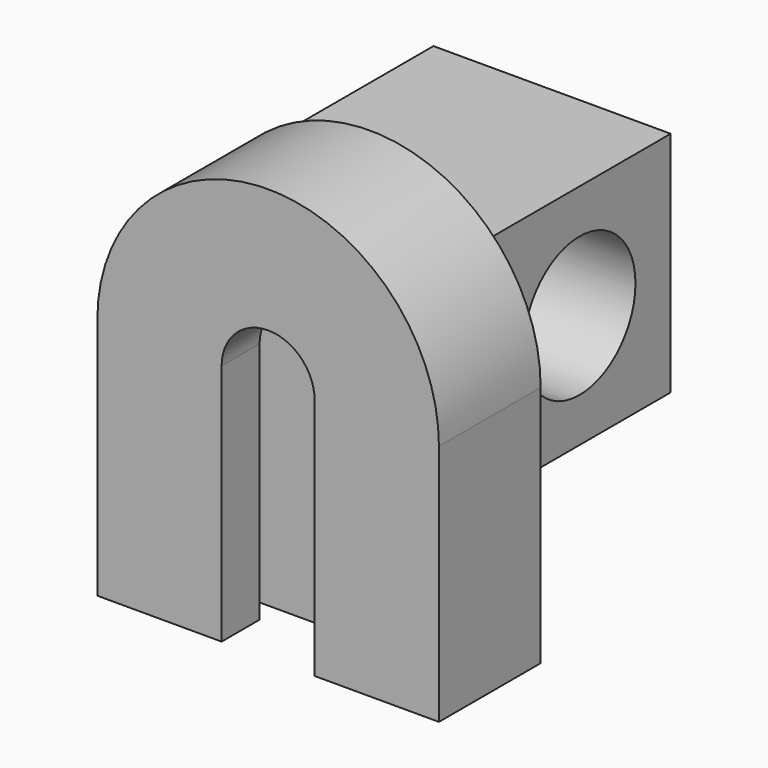
from build123d import *

# Parameters (mm, degrees)
F1_DEPTH = 3.81
F3_DEPTH = 1.524
F5_DEPTH = 3.175
F6_W     = 15.875
F6_H     = 15.24
F7_DEPTH = 15.24
F8_R     = 4.6736
F9_DEPTH = 19.3685


with BuildPart() as f1:
    # F0 (on Front) → F1 (new body)
    with BuildSketch(Plane.XZ):
        with BuildLine():
            Line((-11.43, 0), (11.43, 0))
            ThreePointArc((11.43, 0), (0, 11.43), (-11.43, 0))
        make_face()
        with BuildLine():
            Line((11.43, -16.2387751043), (11.43, 0))
            ThreePointArc((11.43, 0), (0, -11.43), (-11.43, 0))
            Line((-11.43, 0), (-11.43, -16.2387751043))
            Line((-11.43, -16.2387751043), (11.43, -16.2387751043))
        make_face()
        with BuildLine():
            ThreePointArc((-11.43, 0), (0, -11.43), (11.43, 0))
            Line((11.43, 0), (-11.43, 0))
        make_face()
    extrude(amount=F1_DEPTH)

    # F2 (on face) → F3 (join)
    with BuildSketch(Plane.XZ.offset(3.81)):
        with BuildLine():
            Line((11.43, -16.2387751043), (11.43, 0))
            ThreePointArc((11.43, 0), (0, 11.43), (-11.43, 0))
            Line((-11.43, 0), (-11.43, -16.2387751043))
            Line((-11.43, -16.2387751043), (-6.7945, -16.2387751043))
            Line((-6.7945, -16.2387751043), (-6.7945, -11.6032751043))
            Line((-6.7945, -11.6032751043), (-6.7945, 0))
            ThreePointArc((-6.7945, 0), (0, 6.7945), (6.7945, 0))
            Line((6.7945, 0), (6.7945, -11.6032751043))
            Line((6.7945, -11.6032751043), (6.7945, -16.2387751043))
            Line((6.7945, -16.2387751043), (11.43, -16.2387751043))
        make_face()
    extrude(amount=F3_DEPTH)

    # F4 (on face) → F5 (join)
    with BuildSketch(Plane.XZ.offset(5.334)):
        with BuildLine():
            Line((-3.1115, -16.2387751043), (-3.1115, 0))
            ThreePointArc((-3.1115, 0), (0, 3.1115), (3.1115, 0))
            Line((3.1115, 0), (3.1115, -16.2387751043))
            Line((3.1115, -16.2387751043), (11.43, -16.2387751043))
            Line((11.43, -16.2387751043), (11.43, 0))
            ThreePointArc((11.43, 0), (0, 11.43), (-11.43, 0))
            Line((-11.43, 0), (-11.43, -16.2387751043))
            Line((-11.43, -16.2387751043), (-3.1115, -16.2387751043))
        make_face()
    extrude(amount=F5_DEPTH)

    # F6 (on face) → F7 (join)
    with BuildSketch(Plane(origin=(0, 0, 0), x_dir=(-1, 0, 0), z_dir=(0, 1, 0))):
        Rectangle(F6_W, F6_H)
    extrude(amount=F7_DEPTH)

    # F8 (on face) → F9 (cut, through all)
    with BuildSketch(Plane.YZ.offset(7.9375)):
        with Locations((7.62, 0)):
            Circle(F8_R)
    extrude(amount=-F9_DEPTH, mode=Mode.SUBTRACT)


solid = f1.part
